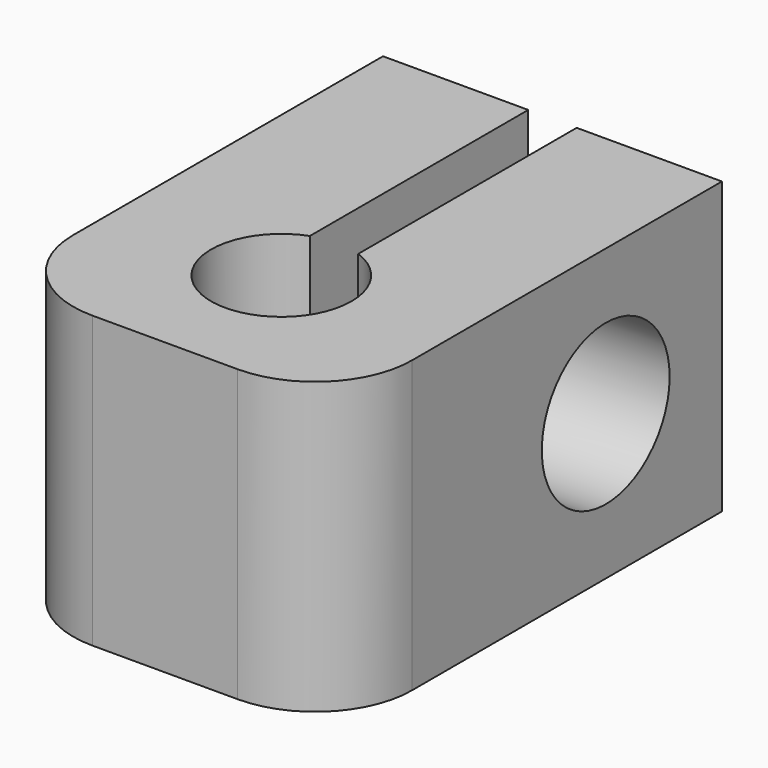
from build123d import *

# Parameters (mm, degrees)
F1_DEPTH = 6
F2_R     = 1.65
F3_DEPTH = 25
F4_R     = 2


with BuildPart() as f1:
    # F0 (on Top) → F1 (new body)
    with BuildSketch(Plane.XY):
        with BuildLine():
            Line((-0.5, 7), (-3.5, 7))
            Line((-3.5, 7), (-3.5, -3))
            Line((-3.5, -3), (3.5, -3))
            Line((3.5, -3), (3.5, 7))
            Line((3.5, 7), (0.5, 7))
            Line((0.5, 7), (0.5, 1.361066))
            ThreePointArc((0.5, 1.361066), (1.189012, 0.82991), (1.45, 0))
            ThreePointArc((1.45, 0), (-0.82991, -1.189012), (-0.5, 1.361066))
            Line((-0.5, 1.361066), (-0.5, 7))
        make_face()
    extrude(amount=F1_DEPTH)

    # F2 (on face) → F3 (cut)
    with BuildSketch(Plane.YZ.offset(3.5)):
        with Locations((4, 3)):
            Circle(F2_R)
    extrude(amount=-F3_DEPTH, mode=Mode.SUBTRACT)

    # F4
    f4_edges = [f1.edges().sort_by_distance(p)[0] for p in [
        (3.5, -3, 3),
        (-3.5, -3, 3),
    ]]
    fillet(f4_edges, radius=F4_R)


solid = f1.part
